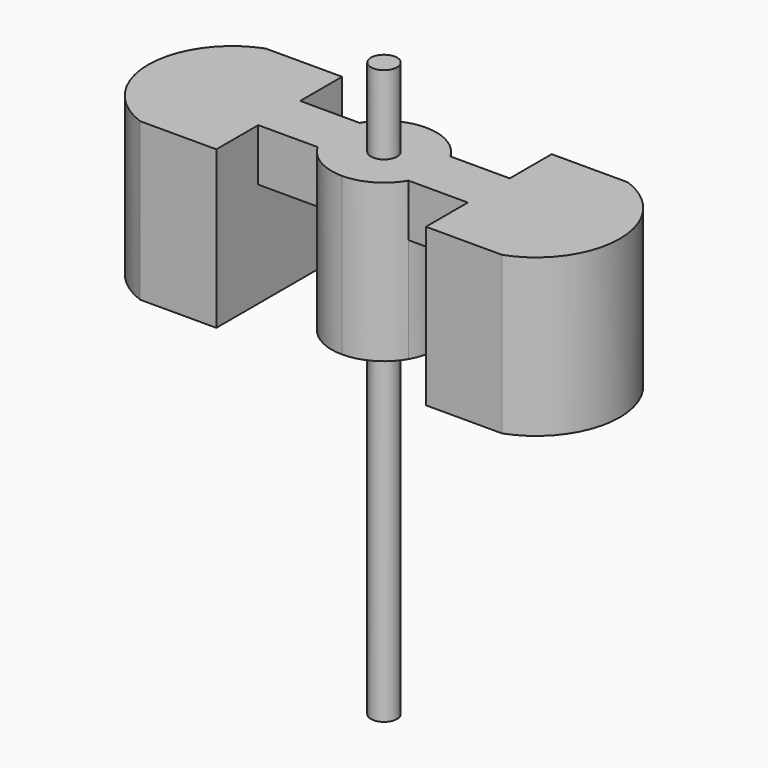
from build123d import *

# Parameters (mm, degrees)
F1_DEPTH = 6
F3_DEPTH = 4
F4_R     = 0.5
F5_DEPTH = 3
F6_R     = 0.5
F7_DEPTH = 12.9


with BuildPart() as f1:
    # F0 (on Top) → F1 (new body)
    with BuildSketch(Plane.XY):
        with BuildLine():
            Line((4, 1), (1.7320508076, 1))
            ThreePointArc((1.7320508076, 1), (1, 1.7320508076), (0, 2))
            ThreePointArc((0, 2), (-1, 1.7320508076), (-1.7320508076, 1))
            Line((-1.7320508076, 1), (-4, 1))
            Line((-4, 1), (-4, 3))
            Line((-4, 3), (-6.9135528726, 3))
            ThreePointArc((-6.9135528726, 3), (-9, 0), (-6.9135528726, -3))
            Line((-6.9135528726, -3), (-4, -3))
            Line((-4, -3), (-4, -1))
            Line((-4, -1), (-1.7320508076, -1))
            ThreePointArc((-1.7320508076, -1), (-1, -1.7320508076), (0, -2))
            ThreePointArc((0, -2), (1, -1.7320508076), (1.7320508076, -1))
            Line((1.7320508076, -1), (4, -1))
            Line((4, -1), (4, -3))
            Line((4, -3), (6.9135528726, -3))
            ThreePointArc((6.9135528726, -3), (9, 0), (6.9135528726, 3))
            Line((6.9135528726, 3), (4, 3))
            Line((4, 3), (4, 1))
        make_face()
    extrude(amount=F1_DEPTH)

    # F2 (on face) → F3 (cut)
    with BuildSketch(Plane(origin=(0, 0, 0), x_dir=(1, 0, 0), z_dir=(0, 0, -1))):
        with BuildLine():
            ThreePointArc((-1.7320508076, -1), (-2, 0), (-1.7320508076, 1))
            Line((-1.7320508076, 1), (-4, 1))
            Line((-4, 1), (-4, -1))
            Line((-4, -1), (-1.7320508076, -1))
        make_face()
        with BuildLine():
            ThreePointArc((1.7320508076, 1), (2, 0), (1.7320508076, -1))
            Line((1.7320508076, -1), (4, -1))
            Line((4, -1), (4, 1))
            Line((4, 1), (1.7320508076, 1))
        make_face()
    extrude(amount=-F3_DEPTH, mode=Mode.SUBTRACT)

    # F4 (on face) → F5 (join)
    with BuildSketch(Plane.XY.offset(6)):
        Circle(F4_R)
    extrude(amount=F5_DEPTH)

    # F6 (on face) → F7 (join)
    with BuildSketch(Plane(origin=(0, 0, 0), x_dir=(1, 0, 0), z_dir=(0, 0, -1))):
        Circle(F6_R)
    extrude(amount=F7_DEPTH)


solid = f1.part
